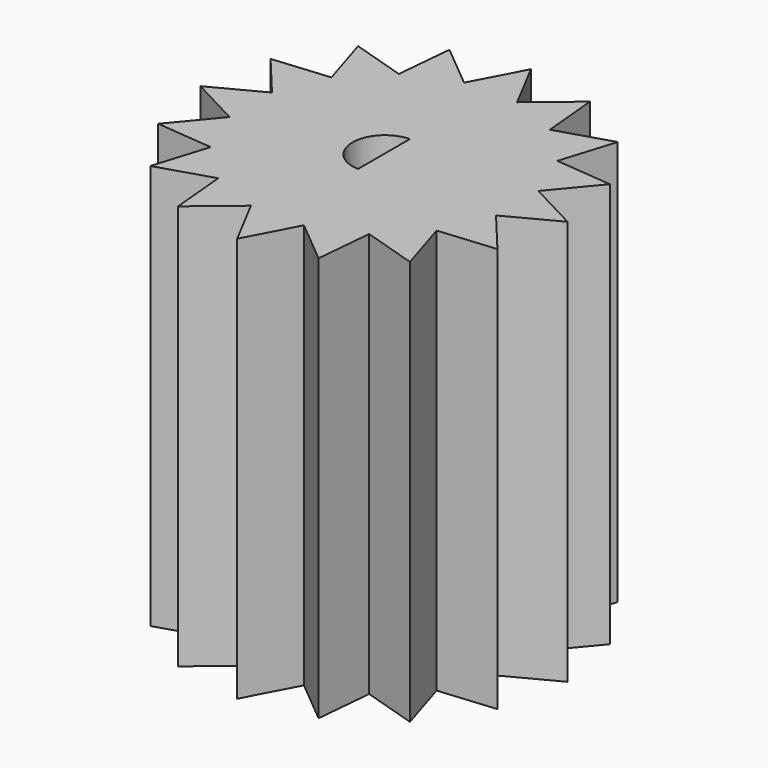
from build123d import *

# Parameters (mm, degrees)
F1_DEPTH = 19.05
F3_DEPTH = 12.7


with BuildPart() as f1:
    # F0 (on Top) → F1 (new body)
    with BuildSketch(Plane.XY):
        with BuildLine():
            ThreePointArc((3.5542700278, 5.2620969746), (4.4901280605, 4.4901280605), (5.2620969746, 3.5542700278))
            Line((5.2620969746, 3.5542700278), (5.31242539, 3.5496491612))
            Line((5.31242539, 3.5496491612), (6.1065741623, 6.1065741623))
            Line((6.1065741623, 6.1065741623), (3.5496491612, 5.31242539))
            Line((3.5496491612, 5.31242539), (3.5542700278, 5.2620969746))
        make_face()
        with BuildLine():
            Line((6.2664330105, -1.2464710252), (6.2217039467, -1.27))
            ThreePointArc((6.2217039467, -1.27), (5.8666350314, -2.4300397955), (5.2974346633, -3.5013834391))
            Line((5.2974346633, -3.5013834391), (5.31242539, -3.5496491612))
            Line((5.31242539, -3.5496491612), (7.9786236428, -3.3048541219))
            Line((7.9786236428, -3.3048541219), (6.2664330105, -1.2464710252))
        make_face()
        with BuildLine():
            Line((1.2464710252, -6.2664330105), (1.2076160152, -6.2341128928))
            ThreePointArc((1.2076160152, -6.2341128928), (0, -6.35), (-1.2076160152, -6.2341128928))
            Line((-1.2076160152, -6.2341128928), (-1.2464710252, -6.2664330105))
            Line((-1.2464710252, -6.2664330105), (0, -8.636))
            Line((0, -8.636), (1.2464710252, -6.2664330105))
        make_face()
        with BuildLine():
            Line((-1.2464710252, -6.2664330105), (-1.27, -6.2217039467))
            ThreePointArc((-1.27, -6.2217039467), (-2.4300397955, -5.8666350314), (-3.5013834391, -5.2974346633))
            Line((-3.5013834391, -5.2974346633), (-3.5496491612, -5.31242539))
            Line((-3.5496491612, -5.31242539), (-3.3048541219, -7.9786236428))
            Line((-3.3048541219, -7.9786236428), (-1.2464710252, -6.2664330105))
        make_face()
        with BuildLine():
            ThreePointArc((6.2341128928, -1.2076160152), (6.3209618283, -0.6065818703), (6.35, 0))
            ThreePointArc((6.35, 0), (6.3209618283, 0.6065818703), (6.2341128928, 1.2076160152))
            ThreePointArc((6.2341128928, 1.2076160152), (6.2279865306, 1.2388235448), (6.2217039467, 1.27))
            ThreePointArc((6.2217039467, 1.27), (5.8666350314, 2.4300397955), (5.2974346633, 3.5013834391))
            ThreePointArc((5.2974346633, 3.5013834391), (5.2798320381, 3.5278709797), (5.2620969746, 3.5542700278))
            ThreePointArc((5.2620969746, 3.5542700278), (4.4901280605, 4.4901280605), (3.5542700278, 5.2620969746))
            ThreePointArc((3.5542700278, 5.2620969746), (3.5278709797, 5.2798320381), (3.5013834391, 5.2974346633))
            ThreePointArc((3.5013834391, 5.2974346633), (2.4300397955, 5.8666350314), (1.27, 6.2217039467))
            ThreePointArc((1.27, 6.2217039467), (1.2388235448, 6.2279865306), (1.2076160152, 6.2341128928))
            ThreePointArc((1.2076160152, 6.2341128928), (0, 6.35), (-1.2076160152, 6.2341128928))
            ThreePointArc((-1.2076160152, 6.2341128928), (-1.2388235448, 6.2279865306), (-1.27, 6.2217039467))
            ThreePointArc((-1.27, 6.2217039467), (-2.4300397955, 5.8666350314), (-3.5013834391, 5.2974346633))
            ThreePointArc((-3.5013834391, 5.2974346633), (-3.5278709797, 5.2798320381), (-3.5542700278, 5.2620969746))
            ThreePointArc((-3.5542700278, 5.2620969746), (-4.4901280605, 4.4901280605), (-5.2620969746, 3.5542700278))
            ThreePointArc((-5.2620969746, 3.5542700278), (-5.2798320381, 3.5278709797), (-5.2974346633, 3.5013834391))
            ThreePointArc((-5.2974346633, 3.5013834391), (-5.8666350314, 2.4300397955), (-6.2217039467, 1.27))
            ThreePointArc((-6.2217039467, 1.27), (-6.2279865306, 1.2388235448), (-6.2341128928, 1.2076160152))
            ThreePointArc((-6.2341128928, 1.2076160152), (-6.35, 0), (-6.2341128928, -1.2076160152))
            ThreePointArc((-6.2341128928, -1.2076160152), (-6.2279865306, -1.2388235448), (-6.2217039467, -1.27))
            ThreePointArc((-6.2217039467, -1.27), (-5.8666350314, -2.4300397955), (-5.2974346633, -3.5013834391))
            ThreePointArc((-5.2974346633, -3.5013834391), (-5.2798320381, -3.5278709797), (-5.2620969746, -3.5542700278))
            ThreePointArc((-5.2620969746, -3.5542700278), (-4.4901280605, -4.4901280605), (-3.5542700278, -5.2620969746))
            ThreePointArc((-3.5542700278, -5.2620969746), (-3.5278709797, -5.2798320381), (-3.5013834391, -5.2974346633))
            ThreePointArc((-3.5013834391, -5.2974346633), (-2.4300397955, -5.8666350314), (-1.27, -6.2217039467))
            ThreePointArc((-1.27, -6.2217039467), (-1.2388235448, -6.2279865306), (-1.2076160152, -6.2341128928))
            ThreePointArc((-1.2076160152, -6.2341128928), (0, -6.35), (1.2076160152, -6.2341128928))
            ThreePointArc((1.2076160152, -6.2341128928), (1.2388235448, -6.2279865306), (1.27, -6.2217039467))
            ThreePointArc((1.27, -6.2217039467), (2.4300397955, -5.8666350314), (3.5013834391, -5.2974346633))
            ThreePointArc((3.5013834391, -5.2974346633), (3.5278709797, -5.2798320381), (3.5542700278, -5.2620969746))
            ThreePointArc((3.5542700278, -5.2620969746), (4.4901280605, -4.4901280605), (5.2620969746, -3.5542700278))
            ThreePointArc((5.2620969746, -3.5542700278), (5.2798320381, -3.5278709797), (5.2974346633, -3.5013834391))
            ThreePointArc((5.2974346633, -3.5013834391), (5.8666350314, -2.4300397955), (6.2217039467, -1.27))
            ThreePointArc((6.2217039467, -1.27), (6.2279865306, -1.2388235448), (6.2341128928, -1.2076160152))
        make_face()
        with BuildLine():
            ThreePointArc((1.27, 6.2217039467), (2.4300397955, 5.8666350314), (3.5013834391, 5.2974346633))
            Line((3.5013834391, 5.2974346633), (3.5496491612, 5.31242539))
            Line((3.5496491612, 5.31242539), (3.3048541219, 7.9786236428))
            Line((3.3048541219, 7.9786236428), (1.2464710252, 6.2664330105))
            Line((1.2464710252, 6.2664330105), (1.27, 6.2217039467))
        make_face()
        with BuildLine():
            ThreePointArc((5.2974346633, 3.5013834391), (5.8666350314, 2.4300397955), (6.2217039467, 1.27))
            Line((6.2217039467, 1.27), (6.2664330105, 1.2464710252))
            Line((6.2664330105, 1.2464710252), (7.9786236428, 3.3048541219))
            Line((7.9786236428, 3.3048541219), (5.31242539, 3.5496491612))
            Line((5.31242539, 3.5496491612), (5.2974346633, 3.5013834391))
        make_face()
        with BuildLine():
            ThreePointArc((-6.2217039467, 1.27), (-5.8666350314, 2.4300397955), (-5.2974346633, 3.5013834391))
            Line((-5.2974346633, 3.5013834391), (-5.31242539, 3.5496491612))
            Line((-5.31242539, 3.5496491612), (-7.9786236428, 3.3048541219))
            Line((-7.9786236428, 3.3048541219), (-6.2664330105, 1.2464710252))
            Line((-6.2664330105, 1.2464710252), (-6.2217039467, 1.27))
        make_face()
        with BuildLine():
            Line((5.31242539, -3.5496491612), (5.2620969746, -3.5542700278))
            ThreePointArc((5.2620969746, -3.5542700278), (4.4901280605, -4.4901280605), (3.5542700278, -5.2620969746))
            Line((3.5542700278, -5.2620969746), (3.5496491612, -5.31242539))
            Line((3.5496491612, -5.31242539), (6.1065741623, -6.1065741623))
            Line((6.1065741623, -6.1065741623), (5.31242539, -3.5496491612))
        make_face()
        with BuildLine():
            ThreePointArc((-1.2076160152, 6.2341128928), (0, 6.35), (1.2076160152, 6.2341128928))
            Line((1.2076160152, 6.2341128928), (1.2464710252, 6.2664330105))
            Line((1.2464710252, 6.2664330105), (0, 8.636))
            Line((0, 8.636), (-1.2464710252, 6.2664330105))
            Line((-1.2464710252, 6.2664330105), (-1.2076160152, 6.2341128928))
        make_face()
        with BuildLine():
            ThreePointArc((-5.2620969746, 3.5542700278), (-4.4901280605, 4.4901280605), (-3.5542700278, 5.2620969746))
            Line((-3.5542700278, 5.2620969746), (-3.5496491612, 5.31242539))
            Line((-3.5496491612, 5.31242539), (-6.1065741623, 6.1065741623))
            Line((-6.1065741623, 6.1065741623), (-5.31242539, 3.5496491612))
            Line((-5.31242539, 3.5496491612), (-5.2620969746, 3.5542700278))
        make_face()
        with BuildLine():
            ThreePointArc((-6.2341128928, -1.2076160152), (-6.35, 0), (-6.2341128928, 1.2076160152))
            Line((-6.2341128928, 1.2076160152), (-6.2664330105, 1.2464710252))
            Line((-6.2664330105, 1.2464710252), (-8.636, 0))
            Line((-8.636, 0), (-6.2664330105, -1.2464710252))
            Line((-6.2664330105, -1.2464710252), (-6.2341128928, -1.2076160152))
        make_face()
        with BuildLine():
            Line((-5.31242539, -3.5496491612), (-5.2974346633, -3.5013834391))
            ThreePointArc((-5.2974346633, -3.5013834391), (-5.8666350314, -2.4300397955), (-6.2217039467, -1.27))
            Line((-6.2217039467, -1.27), (-6.2664330105, -1.2464710252))
            Line((-6.2664330105, -1.2464710252), (-7.9786236428, -3.3048541219))
            Line((-7.9786236428, -3.3048541219), (-5.31242539, -3.5496491612))
        make_face()
        with BuildLine():
            Line((3.5496491612, -5.31242539), (3.5013834391, -5.2974346633))
            ThreePointArc((3.5013834391, -5.2974346633), (2.4300397955, -5.8666350314), (1.27, -6.2217039467))
            Line((1.27, -6.2217039467), (1.2464710252, -6.2664330105))
            Line((1.2464710252, -6.2664330105), (3.3048541219, -7.9786236428))
            Line((3.3048541219, -7.9786236428), (3.5496491612, -5.31242539))
        make_face()
        with BuildLine():
            ThreePointArc((-3.5013834391, 5.2974346633), (-2.4300397955, 5.8666350314), (-1.27, 6.2217039467))
            Line((-1.27, 6.2217039467), (-1.2464710252, 6.2664330105))
            Line((-1.2464710252, 6.2664330105), (-3.3048541219, 7.9786236428))
            Line((-3.3048541219, 7.9786236428), (-3.5496491612, 5.31242539))
            Line((-3.5496491612, 5.31242539), (-3.5013834391, 5.2974346633))
        make_face()
        with BuildLine():
            Line((-3.5496491612, -5.31242539), (-3.5542700278, -5.2620969746))
            ThreePointArc((-3.5542700278, -5.2620969746), (-4.4901280605, -4.4901280605), (-5.2620969746, -3.5542700278))
            Line((-5.2620969746, -3.5542700278), (-5.31242539, -3.5496491612))
            Line((-5.31242539, -3.5496491612), (-6.1065741623, -6.1065741623))
            Line((-6.1065741623, -6.1065741623), (-3.5496491612, -5.31242539))
        make_face()
        with BuildLine():
            ThreePointArc((6.2341128928, 1.2076160152), (6.3209618283, 0.6065818703), (6.35, 0))
            ThreePointArc((6.35, 0), (6.3209618283, -0.6065818703), (6.2341128928, -1.2076160152))
            Line((6.2341128928, -1.2076160152), (6.2664330105, -1.2464710252))
            Line((6.2664330105, -1.2464710252), (8.636, 0))
            Line((8.636, 0), (6.2664330105, 1.2464710252))
            Line((6.2664330105, 1.2464710252), (6.2341128928, 1.2076160152))
        make_face()
        with BuildLine():
            ThreePointArc((-3.5542700278, 5.2620969746), (-3.5278709797, 5.2798320381), (-3.5013834391, 5.2974346633))
            Line((-3.5013834391, 5.2974346633), (-3.5496491612, 5.31242539))
            Line((-3.5496491612, 5.31242539), (-3.5542700278, 5.2620969746))
        make_face()
        with BuildLine():
            Line((-3.5496491612, -5.31242539), (-3.5013834391, -5.2974346633))
            ThreePointArc((-3.5013834391, -5.2974346633), (-3.5278709797, -5.2798320381), (-3.5542700278, -5.2620969746))
            Line((-3.5542700278, -5.2620969746), (-3.5496491612, -5.31242539))
        make_face()
        with BuildLine():
            ThreePointArc((3.5013834391, 5.2974346633), (3.5278709797, 5.2798320381), (3.5542700278, 5.2620969746))
            Line((3.5542700278, 5.2620969746), (3.5496491612, 5.31242539))
            Line((3.5496491612, 5.31242539), (3.5013834391, 5.2974346633))
        make_face()
        with BuildLine():
            Line((-1.2464710252, -6.2664330105), (-1.2076160152, -6.2341128928))
            ThreePointArc((-1.2076160152, -6.2341128928), (-1.2388235448, -6.2279865306), (-1.27, -6.2217039467))
            Line((-1.27, -6.2217039467), (-1.2464710252, -6.2664330105))
        make_face()
        with BuildLine():
            Line((5.31242539, -3.5496491612), (5.2974346633, -3.5013834391))
            ThreePointArc((5.2974346633, -3.5013834391), (5.2798320381, -3.5278709797), (5.2620969746, -3.5542700278))
            Line((5.2620969746, -3.5542700278), (5.31242539, -3.5496491612))
        make_face()
        with BuildLine():
            ThreePointArc((1.2076160152, 6.2341128928), (1.2388235448, 6.2279865306), (1.27, 6.2217039467))
            Line((1.27, 6.2217039467), (1.2464710252, 6.2664330105))
            Line((1.2464710252, 6.2664330105), (1.2076160152, 6.2341128928))
        make_face()
        with BuildLine():
            ThreePointArc((-5.2974346633, 3.5013834391), (-5.2798320381, 3.5278709797), (-5.2620969746, 3.5542700278))
            Line((-5.2620969746, 3.5542700278), (-5.31242539, 3.5496491612))
            Line((-5.31242539, 3.5496491612), (-5.2974346633, 3.5013834391))
        make_face()
        with BuildLine():
            ThreePointArc((6.2217039467, 1.27), (6.2279865306, 1.2388235448), (6.2341128928, 1.2076160152))
            Line((6.2341128928, 1.2076160152), (6.2664330105, 1.2464710252))
            Line((6.2664330105, 1.2464710252), (6.2217039467, 1.27))
        make_face()
        with BuildLine():
            Line((-6.2664330105, -1.2464710252), (-6.2217039467, -1.27))
            ThreePointArc((-6.2217039467, -1.27), (-6.2279865306, -1.2388235448), (-6.2341128928, -1.2076160152))
            Line((-6.2341128928, -1.2076160152), (-6.2664330105, -1.2464710252))
        make_face()
        with BuildLine():
            ThreePointArc((5.2620969746, 3.5542700278), (5.2798320381, 3.5278709797), (5.2974346633, 3.5013834391))
            Line((5.2974346633, 3.5013834391), (5.31242539, 3.5496491612))
            Line((5.31242539, 3.5496491612), (5.2620969746, 3.5542700278))
        make_face()
        with BuildLine():
            ThreePointArc((-1.27, 6.2217039467), (-1.2388235448, 6.2279865306), (-1.2076160152, 6.2341128928))
            Line((-1.2076160152, 6.2341128928), (-1.2464710252, 6.2664330105))
            Line((-1.2464710252, 6.2664330105), (-1.27, 6.2217039467))
        make_face()
        with BuildLine():
            Line((1.2464710252, -6.2664330105), (1.27, -6.2217039467))
            ThreePointArc((1.27, -6.2217039467), (1.2388235448, -6.2279865306), (1.2076160152, -6.2341128928))
            Line((1.2076160152, -6.2341128928), (1.2464710252, -6.2664330105))
        make_face()
        with BuildLine():
            ThreePointArc((-6.2341128928, 1.2076160152), (-6.2279865306, 1.2388235448), (-6.2217039467, 1.27))
            Line((-6.2217039467, 1.27), (-6.2664330105, 1.2464710252))
            Line((-6.2664330105, 1.2464710252), (-6.2341128928, 1.2076160152))
        make_face()
        with BuildLine():
            Line((6.2664330105, -1.2464710252), (6.2341128928, -1.2076160152))
            ThreePointArc((6.2341128928, -1.2076160152), (6.2279865306, -1.2388235448), (6.2217039467, -1.27))
            Line((6.2217039467, -1.27), (6.2664330105, -1.2464710252))
        make_face()
        with BuildLine():
            Line((3.5496491612, -5.31242539), (3.5542700278, -5.2620969746))
            ThreePointArc((3.5542700278, -5.2620969746), (3.5278709797, -5.2798320381), (3.5013834391, -5.2974346633))
            Line((3.5013834391, -5.2974346633), (3.5496491612, -5.31242539))
        make_face()
        with BuildLine():
            Line((-5.31242539, -3.5496491612), (-5.2620969746, -3.5542700278))
            ThreePointArc((-5.2620969746, -3.5542700278), (-5.2798320381, -3.5278709797), (-5.2974346633, -3.5013834391))
            Line((-5.2974346633, -3.5013834391), (-5.31242539, -3.5496491612))
        make_face()
    extrude(amount=F1_DEPTH)

    # F2 (on face) → F3 (cut)
    with BuildSketch(Plane.XY.offset(19.05)):
        with BuildLine():
            Line((0, -1.524), (0, 1.524))
            ThreePointArc((0, 1.524), (-1.4818060502, 0), (0, -1.524))
        make_face()
    extrude(amount=-F3_DEPTH, mode=Mode.SUBTRACT)


solid = f1.part
